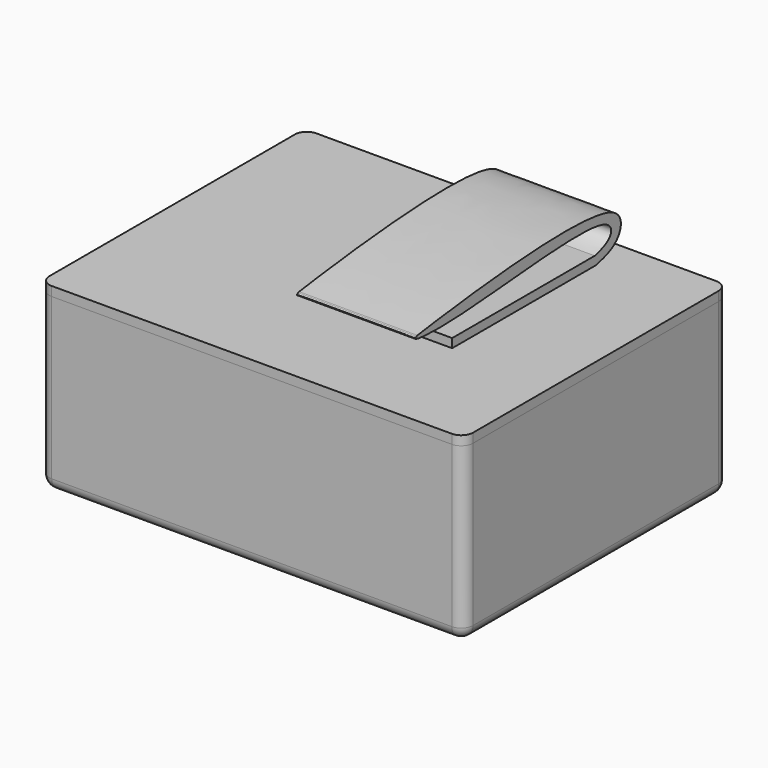
from build123d import *

# Parameters (mm, degrees)
F0_W      = 91
F0_H      = 71
F1_DEPTH  = 39
F2_R      = 2.54
F3_T      = -3
F5_DEPTH  = 8
F6_W      = 85
F6_H      = 65
F7_DEPTH  = 6
F8_T      = -2
F9_R      = 2.54
F11_DEPTH = 25.4


with BuildPart() as f1:
    # F0 (on Top) → F1 (new body)
    with BuildSketch(Plane.XY):
        Rectangle(F0_W, F0_H)
    extrude(amount=F1_DEPTH)

    # F2
    f2_edges = [f1.edges().sort_by_distance(p)[0] for p in [
        (0, -35.5, 0),
        (45.5, -35.5, 19.5),
        (45.5, 0, 0),
        (0, 35.5, 0),
        (45.5, 35.5, 19.5),
        (-45.5, 0, 0),
        (-45.5, 35.5, 19.5),
        (-45.5, -35.5, 19.5),
    ]]
    fillet(f2_edges, radius=F2_R)

    # F3
    f3_openings = [f1.faces().sort_by_distance(p)[0] for p in [
        (0, 0, 39),
    ]]
    offset(amount=F3_T, openings=f3_openings)


with BuildPart() as f5:
    # F4 (on face) → F5 (new body)
    with BuildSketch(Plane.XY.offset(39)):
        with BuildLine():
            Line((42.96, 35.5), (-42.96, 35.5))
            ThreePointArc((-42.96, 35.5), (-44.7560512242, 34.7560512242), (-45.5, 32.96))
            Line((-45.5, 32.96), (-45.5, -32.96))
            ThreePointArc((-45.5, -32.96), (-44.7560512242, -34.7560512242), (-42.96, -35.5))
            Line((-42.96, -35.5), (42.96, -35.5))
            ThreePointArc((42.96, -35.5), (44.7560512242, -34.7560512242), (45.5, -32.96))
            Line((45.5, -32.96), (45.5, 32.96))
            ThreePointArc((45.5, 32.96), (44.7560512242, 34.7560512242), (42.96, 35.5))
        make_face()
    extrude(amount=-F5_DEPTH)

    # F6 (on face) → F7 (cut)
    with BuildSketch(Plane(origin=(0, 0, 31), x_dir=(1, 0, 0), z_dir=(0, 0, -1))):
        with BuildLine():
            ThreePointArc((-45.5, -32.96), (-44.7560512242, -34.7560512242), (-42.96, -35.5))
            Line((-42.96, -35.5), (42.96, -35.5))
            ThreePointArc((42.96, -35.5), (44.7560512242, -34.7560512242), (45.5, -32.96))
            Line((45.5, -32.96), (45.5, 32.96))
            ThreePointArc((45.5, 32.96), (44.7560512242, 34.7560512242), (42.96, 35.5))
            Line((42.96, 35.5), (-42.96, 35.5))
            ThreePointArc((-42.96, 35.5), (-44.7560512242, 34.7560512242), (-45.5, 32.96))
            Line((-45.5, 32.96), (-45.5, -32.96))
        make_face()
        Rectangle(F6_W, F6_H, mode=Mode.SUBTRACT)
    extrude(amount=-F7_DEPTH, mode=Mode.SUBTRACT)

    # F8
    f8_openings = [f5.faces().sort_by_distance(p)[0] for p in [
        (0, 0, 31),
    ]]
    offset(amount=F8_T, openings=f8_openings, kind=Kind.INTERSECTION)

    # F9
    f9_edges = [f5.edges().sort_by_distance(p)[0] for p in [
        (-42.5, 32.5, 34),
        (-42.5, -32.5, 34),
        (42.5, -32.5, 34),
        (42.5, 32.5, 34),
    ]]
    fillet(f9_edges, radius=F9_R)


with BuildPart() as f11:
    # F10 (on Right) → F11 (new body)
    with BuildSketch(Plane.YZ):
        with BuildLine():
            Line((-13.4536381811, 42.4117706716), (-13.4536381811, 40.4924117029))
            Line((-13.4536381811, 40.4924117029), (25.0369273126, 40.4924117029))
            add(Edge.make_bspline(
                [(25.0369273126, 40.4924117029), (27.2628915883, 40.9646055378), (31.8773388123, 42.2316396654), (33.4123125919, 54.8590983413), (-20.6696610192, 47.0263792907), (-22.7932613343, 46.7188172042)],
                knots=[0, 0, 0, 0, 0.1979306392, 0.3809684392, 0.9386301929, 0.9386301929, 0.9386301929, 0.9386301929], degree=3))
            add(Edge.make_bspline(
                [(-23.0265979574, 46.6185346514), (-22.9164563186, 46.664106875), (-22.8177945923, 46.700491997), (-22.7932613343, 46.7188172042)],
                knots=[0.9743274998, 0.9743274998, 0.9743274998, 0.9743274998, 1, 1, 1, 1], degree=3))
            add(Edge.make_bspline(
                [(-23.0265979574, 46.6185346514), (-23.0862022713, 46.5802474202), (-23.1847080136, 46.5230996611), (-23.3592987061, 46.4358069003)],
                knots=[0.9810708663, 0.9810708663, 0.9810708663, 0.9810708663, 1, 1, 1, 1], degree=3))
            add(Edge.make_bspline(
                [(24.8361602426, 42.4117706716), (26.9824378192, 42.9357513785), (29.9467392966, 44.2799584418), (27.7321976863, 50.3527392042), (-10.9477218777, 44.7803133285), (-23.8172236886, 45.9502209177), (-23.3592987061, 46.4358069003)],
                knots=[0, 0, 0, 0, 0.1544793422, 0.2730371495, 0.7174796363, 0.9444073013, 0.9444073013, 0.9444073013, 0.9444073013], degree=3))
            Line((24.8361602426, 42.4117706716), (-13.4536381811, 42.4117706716))
        make_face()
    extrude(amount=F11_DEPTH)


solid = Compound([f1.part, f5.part, f11.part])
